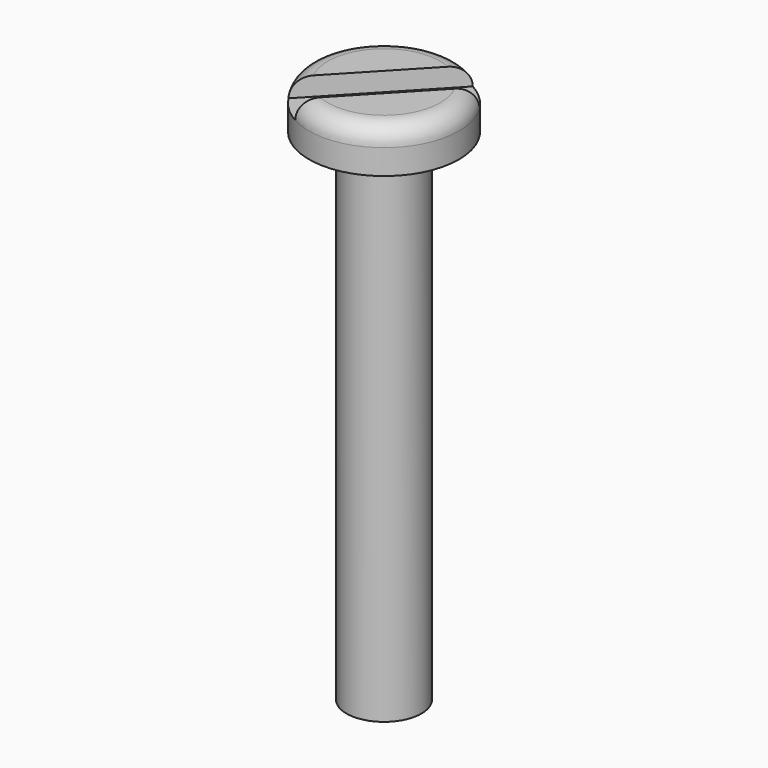
from build123d import *

# Parameters (mm, degrees)
POCKET_DEPTH = 0.75


with BuildPart() as part:
    # Sketch → Revolution (revolve)
    with BuildSketch(Plane.XZ):
        with BuildLine():
            Line((0, 0), (0, 21.75))
            Line((0, 21.75), (2.25, 21.75))
            ThreePointArc((3, 21), (2.78033, 21.53033), (2.25, 21.75))
            Line((3, 21), (3, 20))
            Line((3, 20), (1.5, 20))
            Line((1.5, 20), (1.5, 0))
            Line((1.5, 0), (0, 0))
        make_face()
    revolve(axis=Axis((0, 0, 0), (0, 0, 1)))

    # Sketch001 (on Face5 of Revolution) → Pocket (cut)
    with BuildSketch(Plane(origin=(0, 0, 21.75), x_dir=(-1, 0, 0), z_dir=(0, 0, 1))):
        Polygon((-3.274783, -2.372712), (2.184691, 3.4031), (3.274783, 2.372712), (-2.184691, -3.4031), align=None)
    extrude(amount=-POCKET_DEPTH, mode=Mode.SUBTRACT)


solid = part.part
